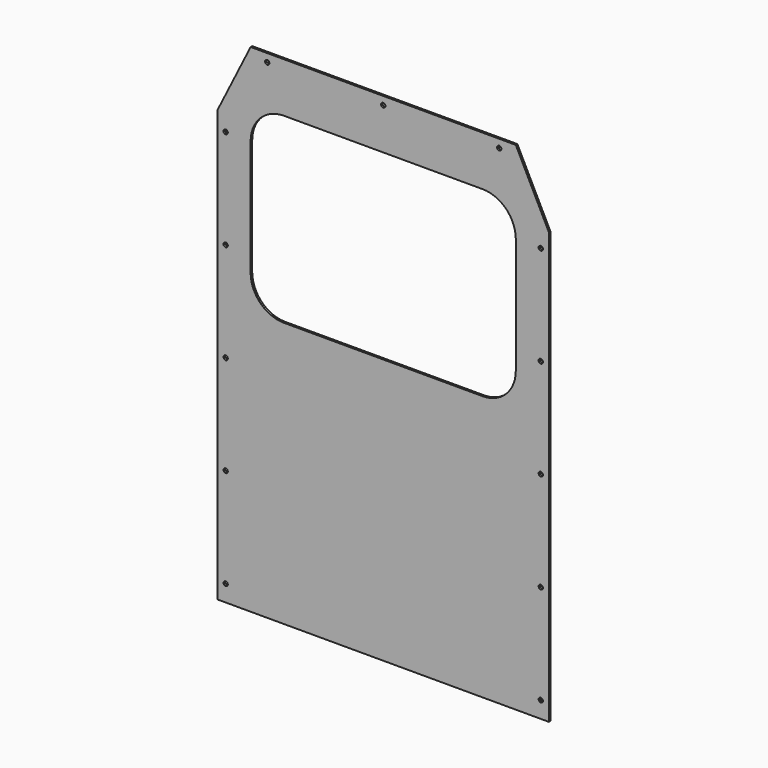
from build123d import *

# Parameters (mm, degrees)
F1_DEPTH = 3
F3_D     = 6.6


with BuildPart() as f1:
    # F0 (on Front) → F1 (new body)
    with BuildSketch(Plane.XZ):
        Polygon((-236.2583571076, 137.1082649553), (-236.2583571076, -523.2917350447), (271.7416428924, -523.2917350447), (271.7416428924, 137.1082649553), (220.9416428924, 238.7082649553), (-185.4583571076, 238.7082649553), align=None)
        with BuildLine():
            ThreePointArc((-185.4583571076, 111.7082649553), (-170.5793815919, 147.6292894396), (-134.6583571076, 162.5082649553))
            Line((-134.6583571076, 162.5082649553), (170.1416428924, 162.5082649553))
            ThreePointArc((170.1416428924, 162.5082649553), (206.0626673766, 147.6292894396), (220.9416428924, 111.7082649553))
            Line((220.9416428924, 111.7082649553), (220.9416428924, -66.0917350447))
            ThreePointArc((220.9416428924, -66.0917350447), (206.0626673766, -102.012759529), (170.1416428924, -116.8917350447))
            Line((170.1416428924, -116.8917350447), (-134.6583571076, -116.8917350447))
            ThreePointArc((-134.6583571076, -116.8917350447), (-170.5793815919, -102.012759529), (-185.4583571076, -66.0917350447))
            Line((-185.4583571076, -66.0917350447), (-185.4583571076, 111.7082649553))
        make_face(mode=Mode.SUBTRACT)
    extrude(amount=F1_DEPTH)

    # F3 (through all)
    with Locations(Plane.XZ.offset(3)):
        with Locations((-223.7583571076, -497.8917350447), (-223.7583571076, -345.4917350447), (-223.7583571076, -193.0917350447), (-223.7583571076, -40.6917350447), (-223.7583571076, 111.7082649553), (-160.0583571076, 226.2082649553), (17.7416428924, 226.2082649553), (195.5416428924, 226.2082649553), (259.2416428924, 111.7082649553), (259.2416428924, -40.6917350447), (259.2416428924, -193.0917350447), (259.2416428924, -345.4917350447), (259.2416428924, -497.8917350447)):
            Hole(F3_D / 2)


solid = f1.part
